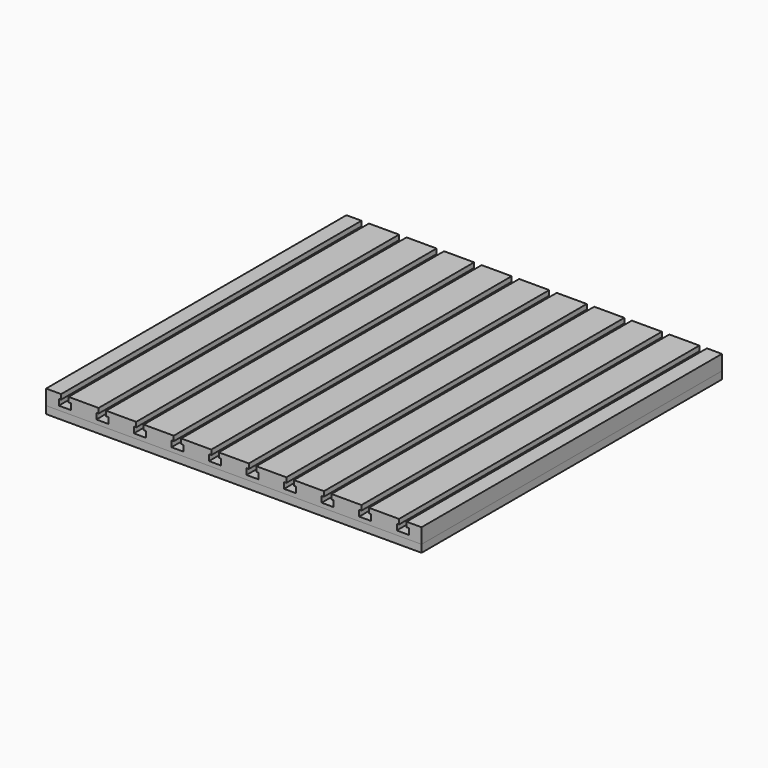
from build123d import *

# Parameters (mm, degrees)
F1_DEPTH = 500
F0_W     = 500
F0_H     = 10
F2_DEPTH = 500


with BuildPart() as f1:
    # F0 (on Front) → F1 (new body)
    with BuildSketch(Plane.XZ):
        Polygon((-5.169302, 30), (-5.169302, 10), (494.830698, 10), (494.830698, 30), (474.830698, 30), (474.830698, 23.5), (477.830698, 23.5), (477.830698, 15.5), (461.830698, 15.5), (461.830698, 23.5), (464.830698, 23.5), (464.830698, 30), (424.830698, 30), (424.830698, 23.5), (427.830698, 23.5), (427.830698, 15.5), (411.830698, 15.5), (411.830698, 23.5), (414.830698, 23.5), (414.830698, 30), (374.830698, 30), (374.830698, 23.5), (377.830698, 23.5), (377.830698, 15.5), (361.830698, 15.5), (361.830698, 23.5), (364.830698, 23.5), (364.830698, 30), (324.830698, 30), (324.830698, 23.5), (327.830698, 23.5), (327.830698, 15.5), (311.830698, 15.5), (311.830698, 23.5), (314.830698, 23.5), (314.830698, 30), (274.830698, 30), (274.830698, 23.5), (277.830698, 23.5), (277.830698, 15.5), (261.830698, 15.5), (261.830698, 23.5), (264.830698, 23.5), (264.830698, 30), (224.830698, 30), (224.830698, 23.5), (227.830698, 23.5), (227.830698, 15.5), (211.830698, 15.5), (211.830698, 23.5), (214.830698, 23.5), (214.830698, 30), (174.830698, 30), (174.830698, 23.5), (177.830698, 23.5), (177.830698, 15.5), (161.830698, 15.5), (161.830698, 23.5), (164.830698, 23.5), (164.830698, 30), (124.830698, 30), (124.830698, 23.5), (127.830698, 23.5), (127.830698, 15.5), (111.830698, 15.5), (111.830698, 23.5), (114.830698, 23.5), (114.830698, 30), (74.830698, 30), (74.830698, 23.5), (77.830698, 23.5), (77.830698, 15.5), (61.830698, 15.5), (61.830698, 23.5), (64.830698, 23.5), (64.830698, 30), (24.830698, 30), (24.830698, 23.5), (27.830698, 23.5), (27.830698, 15.5), (11.830698, 15.5), (11.830698, 23.5), (14.830698, 23.5), (14.830698, 30), align=None)
    extrude(amount=-F1_DEPTH)


with BuildPart() as f2:
    # F0 (on Front) → F2 (new body)
    with BuildSketch(Plane.XZ):
        with Locations((244.830698, 5)):
            Rectangle(F0_W, F0_H)
    extrude(amount=-F2_DEPTH)


solid = Compound([f1.part, f2.part])
